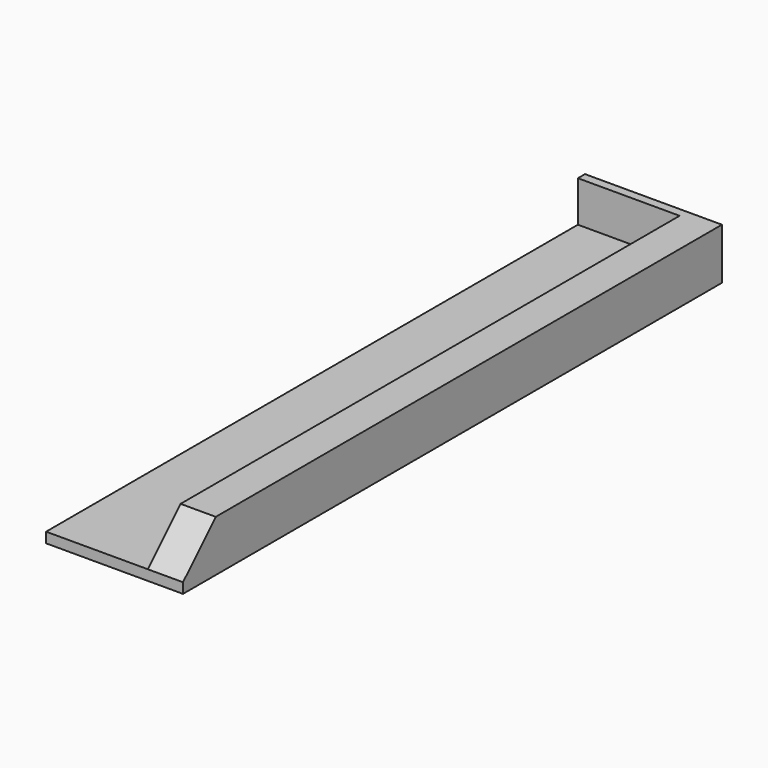
from build123d import *

# Parameters (mm, degrees)
CYLINDER012029001058_R       = 1.75
CYLINDER012029001058_DEPTH   = 6
CYLINDER012029001059_R       = 6.88
CYLINDER012029001059_DEPTH   = 2
CYLINDER012029001060_R       = 1.75
CYLINDER012029001060_DEPTH   = 6
BOX015001051_W               = 20
BOX015001051_H               = 20
BOX015001051_DEPTH           = 28
BOX015001051_PLACEMENT_ANGLE = 45
BOX015001050_W               = 37.15
BOX015001050_H               = 242.75
BOX015001050_DEPTH           = 14.95
BOX015001048_W               = 50
BOX015001048_H               = 246
BOX015001048_DEPTH           = 14.95
BOX015001049_W               = 50
BOX015001049_H               = 246
BOX015001049_DEPTH           = 3.75
CYLINDER012029001061_R       = 6.88
CYLINDER012029001061_DEPTH   = 2


with BuildPart() as cylinder012029001058:
    # Cylinder012029001058 → Cylinder012029001058 (new body)
    with BuildSketch(Plane(origin=(21.63, 233.64, -2), x_dir=(1, 0, 0), z_dir=(0, 0, 1))):
        Circle(CYLINDER012029001058_R)
    extrude(amount=CYLINDER012029001058_DEPTH)


with BuildPart() as cylinder012029001059:
    # Cylinder012029001059 → Cylinder012029001059 (new body)
    with BuildSketch(Plane(origin=(21.63, 233.64, -2), x_dir=(1, 0, 0), z_dir=(0, 0, 1))):
        Circle(CYLINDER012029001059_R)
    extrude(amount=CYLINDER012029001059_DEPTH)


with BuildPart() as cylinder012029001060:
    # Cylinder012029001060 → Cylinder012029001060 (new body)
    with BuildSketch(Plane(origin=(21.63, 26.63, -2), x_dir=(1, 0, 0), z_dir=(0, 0, 1))):
        Circle(CYLINDER012029001060_R)
    extrude(amount=CYLINDER012029001060_DEPTH)


with BuildPart() as cube045:
    # Box015001051 → Box015001051 (new body)
    with BuildSketch(Plane.XY):
        with Locations((10, 10)):
            Rectangle(BOX015001051_W, BOX015001051_H)
    extrude(amount=BOX015001051_DEPTH)


with BuildPart() as cube045_1:
    # Box015001051 placement: moved
    add(cube045.part.moved(Location((0, -14.1422, 17.8921))).rotate(Axis((0, -14.1422, 17.8921), (-1, 0, 0)), BOX015001051_PLACEMENT_ANGLE))


with BuildPart() as cube003:
    # Box015001050 → Box015001050 (new body)
    with BuildSketch(Plane(origin=(12.85, 0, 3.75), x_dir=(1, 0, 0), z_dir=(0, 0, 1))):
        with Locations((18.575, 121.375)):
            Rectangle(BOX015001050_W, BOX015001050_H)
    extrude(amount=BOX015001050_DEPTH)


with BuildPart() as cut003053:
    # Box015001048 → Box015001048 (new body)
    with BuildSketch(Plane.XY.offset(3.75)):
        with Locations((25, 123)):
            Rectangle(BOX015001048_W, BOX015001048_H)
    extrude(amount=BOX015001048_DEPTH)

    # Cut003052: cut Cube003
    add(cube003.part, mode=Mode.SUBTRACT)

    # Cut003053: cut Cube045
    add(cube045_1.part, mode=Mode.SUBTRACT)


with BuildPart() as fusion001019007005:
    # Box015001049 → Box015001049 (new body)
    with BuildSketch(Plane.XY):
        with Locations((25, 123)):
            Rectangle(BOX015001049_W, BOX015001049_H)
    extrude(amount=BOX015001049_DEPTH)

    # Fusion001019007005: union Cut003053
    add(cut003053.part)


with BuildPart() as cut003:
    # Cylinder012029001061 → Cylinder012029001061 (new body)
    with BuildSketch(Plane(origin=(21.63, 26.63, -2), x_dir=(1, 0, 0), z_dir=(0, 0, 1))):
        Circle(CYLINDER012029001061_R)
    extrude(amount=CYLINDER012029001061_DEPTH)

    # Fusion001019007004: union Fusion001019007005
    add(fusion001019007005.part)

    # Cut003054: cut Cylinder012029001060
    add(cylinder012029001060.part, mode=Mode.SUBTRACT)

    # Fusion001019007003: union Cylinder012029001059
    add(cylinder012029001059.part)

    # Cut003: cut Cylinder012029001058
    add(cylinder012029001058.part, mode=Mode.SUBTRACT)


with BuildPart() as part_mirroring:
    # Part__Mirroring: instance of Cut003
    add(cut003.part.mirror(Plane(origin=(126, 0, 0), x_dir=(0, -1, 0), z_dir=(1, 0, 0))))


solid = part_mirroring.part
